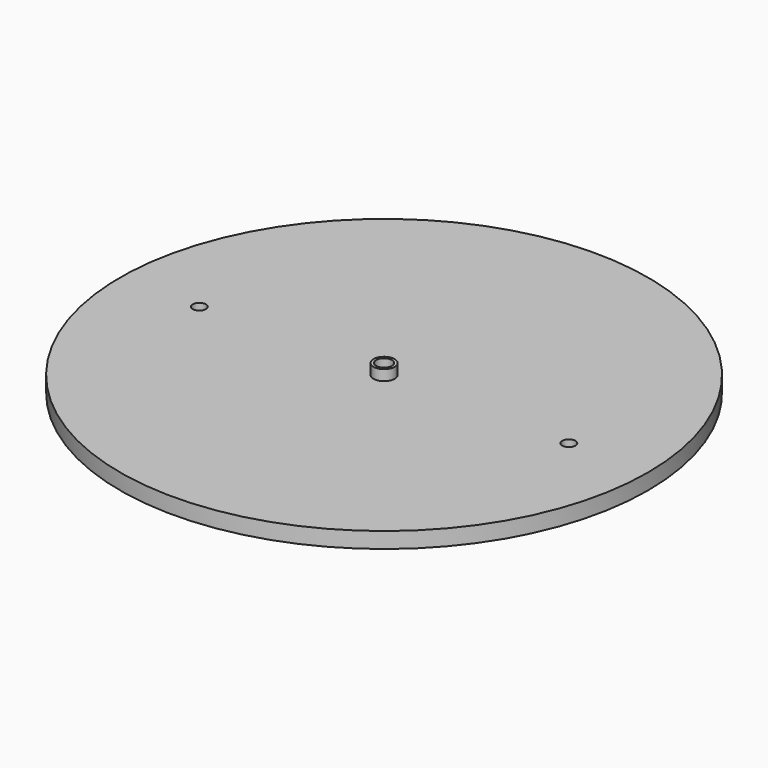
from build123d import *

# Parameters (mm, degrees)
F0_R     = 2.54
F1_DEPTH = 6.35
F0_R_2   = 63.5
F2_DEPTH = 3.81
F3_R     = 1.905
F4_DEPTH = 40.64
F5_R     = 1.5875
F6_DEPTH = 25.4


with BuildPart() as f1:
    # F0 (on Top) → F1 (new body)
    with BuildSketch(Plane.XY):
        Circle(F0_R)
    extrude(amount=F1_DEPTH)

    # F0 (on Top) → F2 (join)
    with BuildSketch(Plane.XY):
        Circle(F0_R_2)
        Circle(F0_R, mode=Mode.SUBTRACT)
    extrude(amount=F2_DEPTH)

    # F3 (on face) → F4 (cut)
    with BuildSketch(Plane.XY.offset(6.35)):
        Circle(F3_R)
    extrude(amount=-F4_DEPTH, mode=Mode.SUBTRACT)

    # F5 (on face) → F6 (cut)
    with BuildSketch(Plane(origin=(0, 0, 0), x_dir=(1, 0, 0), z_dir=(0, 0, -1))):
        with Locations((44.45, 0)):
            Circle(F5_R)
        with Locations((-44.45, 0)):
            Circle(F5_R)
    extrude(amount=-F6_DEPTH, mode=Mode.SUBTRACT)


solid = f1.part
